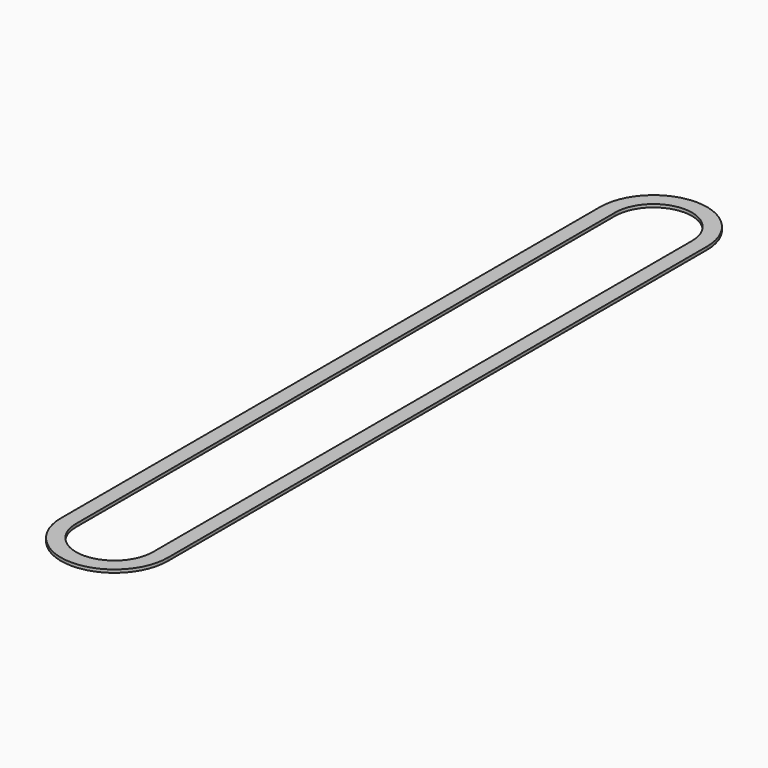
from build123d import *

# Parameters (mm, degrees)
F0_W = 2.5
F0_H = 0.5


with BuildPart() as f2:
    # F2: sweep along a path in F1
    with BuildLine(Plane.XY) as f2_path:
        Line((0, 0), (0, 55.88))
        ThreePointArc((0, 55.88), (-7.62, 63.5), (-15.24, 55.88))
        Line((-15.24, 55.88), (-15.24, -55.88))
        ThreePointArc((-15.24, -55.88), (-7.62, -63.5), (0, -55.88))
        Line((0, -55.88), (0, 0))
    # F0 (on Front) → F2 (sweep)
    with BuildSketch(Plane.XZ):
        Rectangle(F0_W, F0_H)
    sweep(path=f2_path.line)


solid = f2.part
